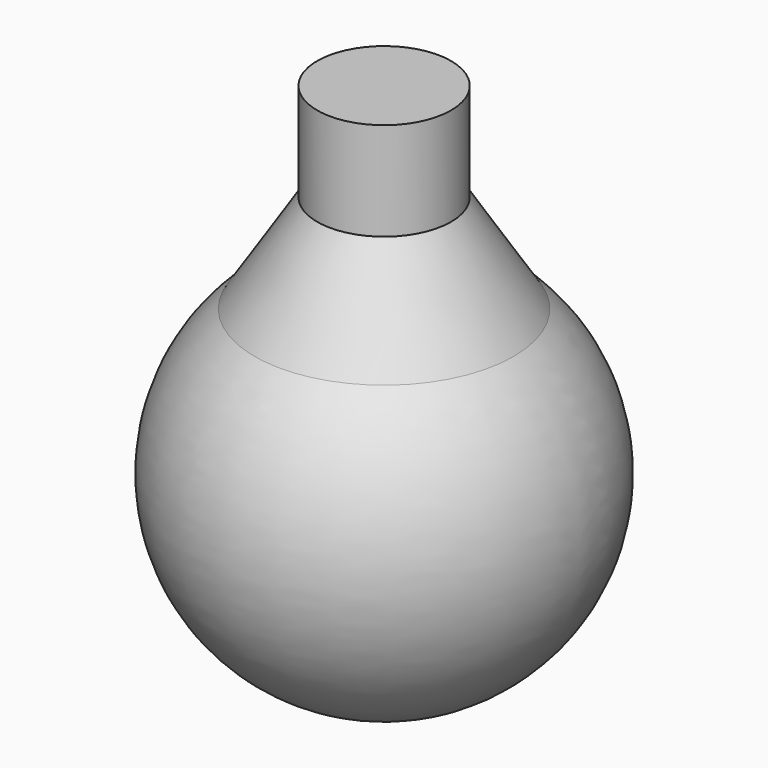
from build123d import *


with BuildPart() as f1:
    # F0 (on Front) → F1 (revolve)
    with BuildSketch(Plane.XZ):
        with BuildLine():
            Line((9.525, 0), (0, 0))
            Line((0, 0), (0, -13.97))
            Line((0, -13.97), (0, -76.2))
            ThreePointArc((0, -76.2), (25.830777, -58.416325), (18.436068, -27.94))
            Line((18.436068, -27.94), (9.525, -13.97))
            Line((9.525, -13.97), (9.525, 0))
        make_face()
    revolve(axis=Axis((0, 0, -45.085), (0, 0, -1)))


solid = f1.part
